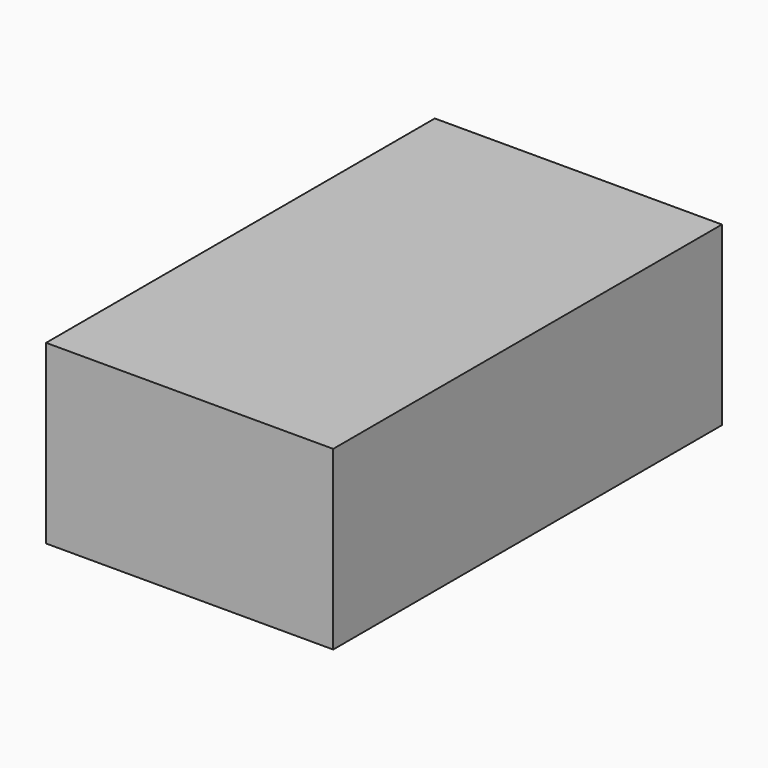
from build123d import *

# Parameters (mm, degrees)
F0_W      = 130
F0_H      = 220
F1_DEPTH  = 40
F2_T      = -1
F4_DEPTH  = 1
F6_DEPTH  = 10
F7_R      = 3
F8_DEPTH  = 2
F11_DEPTH = 10


with BuildPart() as f1:
    # F0 (on Top) → F1 (new body, symmetric)
    with BuildSketch(Plane.XY):
        Rectangle(F0_W, F0_H)
    extrude(amount=F1_DEPTH, both=True)

    # F2 (hollow: no face is removed)
    offset(amount=F2_T, mode=Mode.SUBTRACT)

    # F3 (on face) → F4 (cut, through all)
    with BuildSketch(Plane(origin=(0, 0, -40), x_dir=(1, 0, 0), z_dir=(0, 0, -1))):
        with BuildLine():
            Line((2, 50), (-2, 50))
            ThreePointArc((-2, 50), (-4.1213203436, 49.1213203436), (-5, 47))
            Line((-5, 47), (-5, 33))
            ThreePointArc((-5, 33), (-5.8786796564, 30.8786796564), (-8, 30))
            Line((-8, 30), (-12, 30))
            ThreePointArc((-12, 30), (-14.1213203436, 29.1213203436), (-15, 27))
            Line((-15, 27), (-15, -27))
            ThreePointArc((-15, -27), (-14.1213203436, -29.1213203436), (-12, -30))
            Line((-12, -30), (-8, -30))
            ThreePointArc((-8, -30), (-5.8786796564, -30.8786796564), (-5, -33))
            Line((-5, -33), (-5, -47))
            ThreePointArc((-5, -47), (-4.1213203436, -49.1213203436), (-2, -50))
            Line((-2, -50), (2, -50))
            ThreePointArc((2, -50), (4.1213203436, -49.1213203436), (5, -47))
            Line((5, -47), (5, -33))
            ThreePointArc((5, -33), (5.8786796564, -30.8786796564), (8, -30))
            Line((8, -30), (12, -30))
            ThreePointArc((12, -30), (14.1213203436, -29.1213203436), (15, -27))
            Line((15, -27), (15, 27))
            ThreePointArc((15, 27), (14.1213203436, 29.1213203436), (12, 30))
            Line((12, 30), (8, 30))
            ThreePointArc((8, 30), (5.8786796564, 30.8786796564), (5, 33))
            Line((5, 33), (5, 47))
            ThreePointArc((5, 47), (4.1213203436, 49.1213203436), (2, 50))
        make_face()
    extrude(amount=-F4_DEPTH, mode=Mode.SUBTRACT)


with BuildPart() as f6:
    # F5 (on Top) → F6 (new body, symmetric)
    with BuildSketch(Plane.XY):
        Polygon((-65, -60), (-65, 60), (-80, 60), (-80, 80), (-82, 80), (-82, 58), (-67, 58), (-67, -58), (-82, -58), (-82, -80), (-80, -80), (-80, -60), align=None)
    extrude(amount=F6_DEPTH, both=True)

    # F7 (on face) → F8 (cut, through all)
    with BuildSketch(Plane(origin=(-82, 0, 0), x_dir=(0, -1, 0), z_dir=(-1, 0, 0))):
        with Locations((-70, 0)):
            Circle(F7_R)
        with Locations((70, 0)):
            Circle(F7_R)
    extrude(amount=-F8_DEPTH, mode=Mode.SUBTRACT)


with BuildPart() as f11:
    # F10 (on offset) → F11 (new body, symmetric)
    with BuildSketch(Plane.XZ.offset(-30)):
        with BuildLine():
            Line((-73, 10), (-65, 10))
            Line((-65, 10), (-65, 12))
            Line((-65, 12), (-73, 12))
            ThreePointArc((-73, 12), (-74.4142135624, 11.4142135624), (-75, 10))
            Line((-75, 10), (-75, -8))
            Line((-75, -8), (-73, -8))
            Line((-73, -8), (-73, 10))
        make_face()
    extrude(amount=F11_DEPTH, both=True)


with BuildPart() as f12_1:
    # F12: instance of F11
    add(f11.part.mirror(Plane.XZ))


solid = Compound([f1.part, f6.part, f11.part, f12_1.part])
